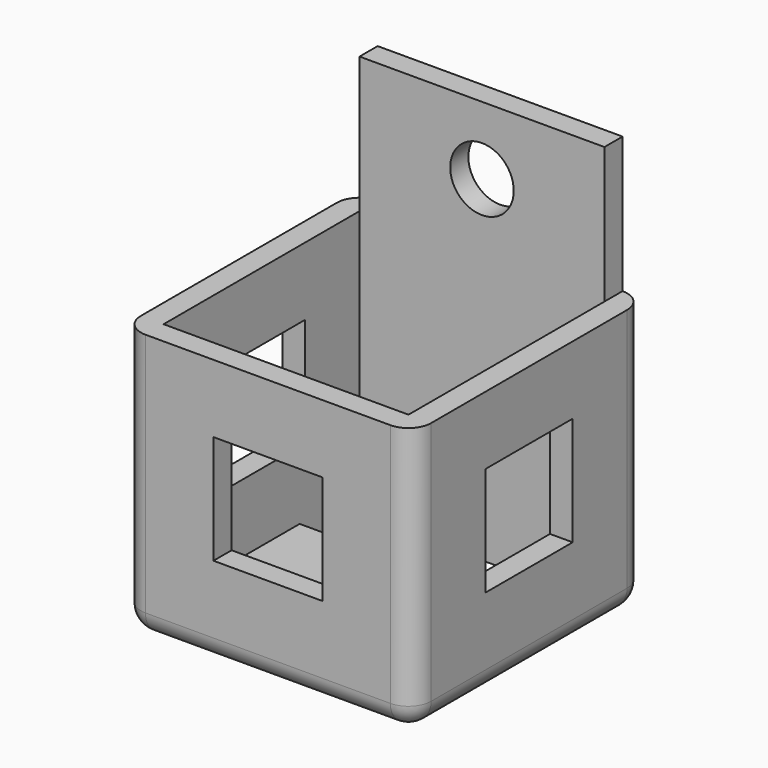
from build123d import *

# Parameters (mm, degrees)
SKETCH_W        = 10.8
SKETCH_H        = 10.8
PAD_DEPTH       = 10.8
THICKNESS_T     = 1
SKETCH001_W     = 10.8
SKETCH001_H     = 1
PAD001_DEPTH    = 6
SKETCH002_R     = 1.4
POCKET_DEPTH    = 1.001
SKETCH003_W     = 10.8
SKETCH003_H     = 3.3
POCKET001_DEPTH = 1.001
SKETCH004_W     = 4.8
SKETCH004_H     = 4.8
POCKET002_DEPTH = 1
SKETCH005_W     = 4.8
SKETCH005_H     = 4.8
POCKET003_DEPTH = 12.801


with BuildPart() as part:
    # Sketch → Pad (new body)
    with BuildSketch(Plane.XY):
        with Locations((5.4, 5.4)):
            Rectangle(SKETCH_W, SKETCH_H)
    extrude(amount=PAD_DEPTH)

    # Thickness
    thickness_openings = [part.faces().sort_by_distance(p)[0] for p in [
        (5.4, 5.4, 10.8),
    ]]
    offset(amount=THICKNESS_T, openings=thickness_openings)

    # Sketch001 → Pad001 (new body)
    with BuildSketch(Plane.XY.offset(10.8)):
        with Locations((5.4, 11.3)):
            Rectangle(SKETCH001_W, SKETCH001_H)
    extrude(amount=PAD001_DEPTH)

    # Sketch002 → Pocket (cut, through all)
    with BuildSketch(Plane.XZ.offset(-10.8)):
        with Locations((5.4, 13.8)):
            Circle(SKETCH002_R)
    extrude(amount=-POCKET_DEPTH, mode=Mode.SUBTRACT)

    # Sketch003 → Pocket001 (cut, through all)
    with BuildSketch(Plane.XY):
        with Locations((5.4, 9.15)):
            Rectangle(SKETCH003_W, SKETCH003_H)
    extrude(amount=-POCKET001_DEPTH, mode=Mode.SUBTRACT)

    # Sketch004 → Pocket002 (cut)
    with BuildSketch(Plane.XZ.offset(1)):
        with Locations((5.4, 5.4)):
            Rectangle(SKETCH004_W, SKETCH004_H)
    extrude(amount=-POCKET002_DEPTH, mode=Mode.SUBTRACT)

    # Sketch005 → Pocket003 (cut, through all)
    with BuildSketch(Plane.YZ.offset(11.8)):
        with Locations((5.4, 5.4)):
            Rectangle(SKETCH005_W, SKETCH005_H)
    extrude(amount=-POCKET003_DEPTH, mode=Mode.SUBTRACT)


solid = part.part
